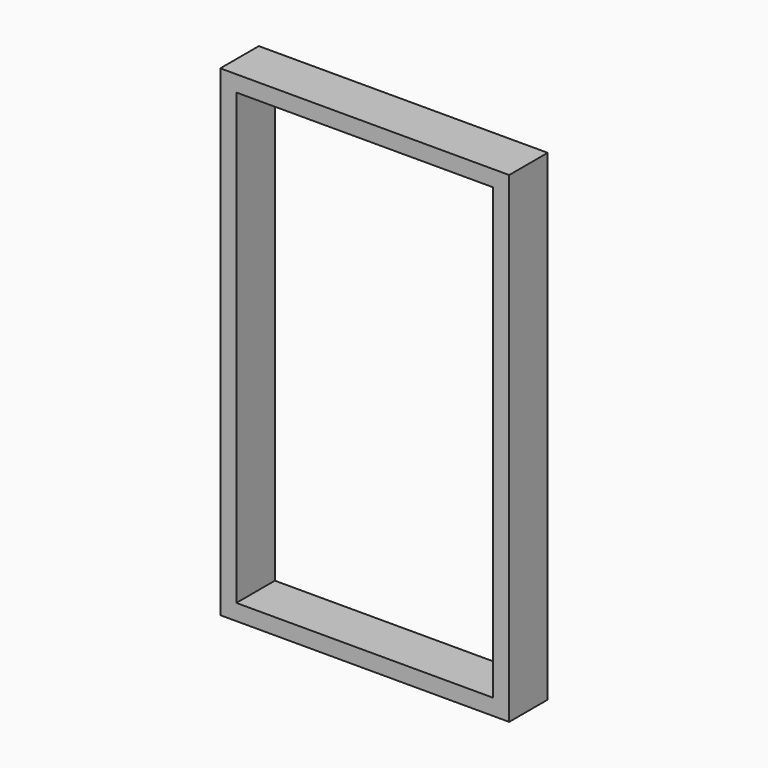
from build123d import *

# Parameters (mm, degrees)
F0_W     = 914.4
F0_H     = 1524
F1_DEPTH = 152.4
F2_T     = -50.8


with BuildPart() as f1:
    # F0 (on Front) → F1 (new body)
    with BuildSketch(Plane.XZ):
        Rectangle(F0_W, F0_H)
    extrude(amount=F1_DEPTH)

    # F2
    f2_openings = [f1.faces().sort_by_distance(p)[0] for p in [
        (0, -152.4, 0),
        (0, 0, 0),
    ]]
    offset(amount=F2_T, openings=f2_openings)


solid = f1.part
